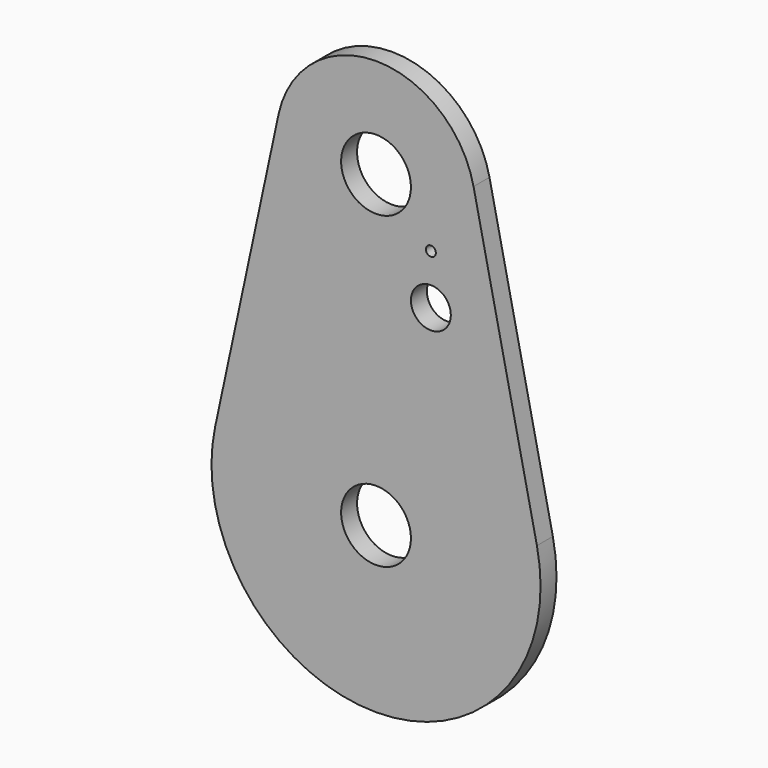
from build123d import *

# Parameters (mm, degrees)
SKETCH_R   = 7
SKETCH_R_2 = 4
SKETCH_R_3 = 1
PAD_DEPTH  = 4


with BuildPart() as part:
    # Sketch → Pad (new body)
    with BuildSketch(Plane.XZ):
        with BuildLine():
            Line((-19.555423, 66.193498), (-32.26643, 6.919355))
            ThreePointArc((-32.26643, 6.919355), (0, -33), (32.26643, 6.919355))
            Line((19.555402, 66.193599), (32.26643, 6.919355))
            ThreePointArc((19.555402, 66.193599), (-5.1e-05, 82), (-19.555423, 66.193498))
        make_face()
        with Locations((0, 62)):
            Circle(SKETCH_R, mode=Mode.SUBTRACT)
        Circle(SKETCH_R, mode=Mode.SUBTRACT)
        with Locations((11, 42)):
            Circle(SKETCH_R_2, mode=Mode.SUBTRACT)
        with Locations((11, 52)):
            Circle(SKETCH_R_3, mode=Mode.SUBTRACT)
    extrude(amount=PAD_DEPTH)


solid = part.part
